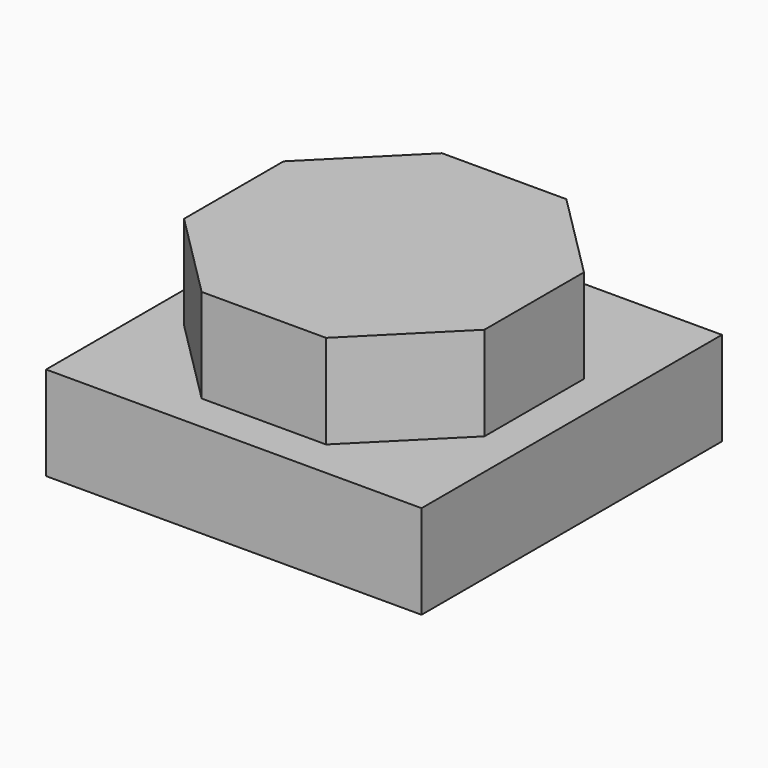
from build123d import *

# Parameters (mm, degrees)
F0_W     = 100
F0_H     = 100
F1_DEPTH = 25
F3_DEPTH = 25


with BuildPart() as f1:
    # F0 (on Top) → F1 (new body)
    with BuildSketch(Plane.XY):
        Rectangle(F0_W, F0_H)
    extrude(amount=-F1_DEPTH)

    # F2 (on face) → F3 (join)
    with BuildSketch(Plane.XY):
        Polygon((16.568542, 40), (-16.568542, 40), (-40, 16.568542), (-40, -16.568542), (-16.568542, -40), (16.568542, -40), (40, -16.568542), (40, 16.568542), align=None)
    extrude(amount=F3_DEPTH)


solid = f1.part
